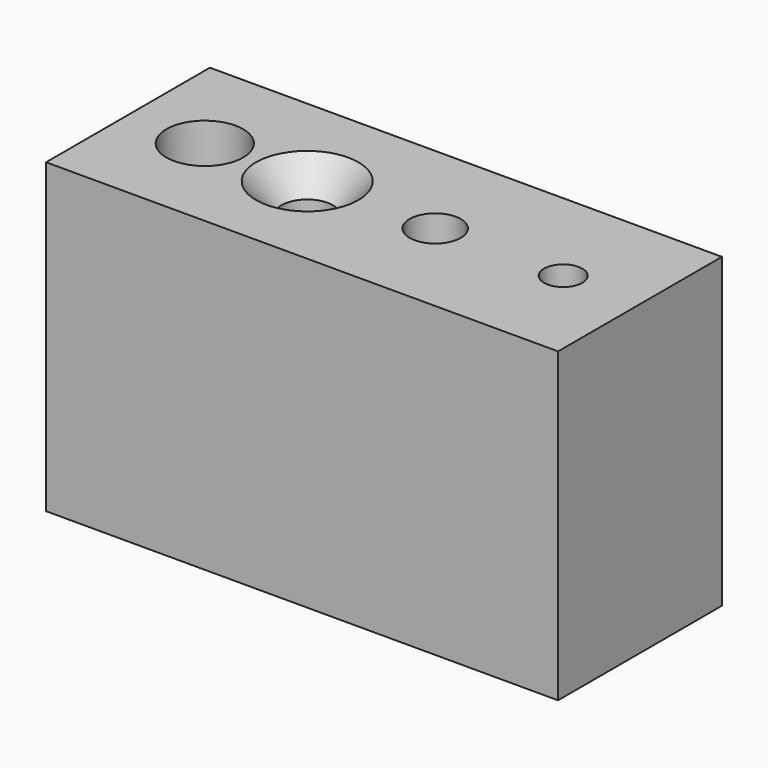
from build123d import *

# Parameters (mm, degrees)
F0_W           = 127
F0_H           = 76.2
F1_DEPTH       = 50.8
F3_D           = 12.7
F3_DEPTH       = 50.8
F3_CBORE_D     = 19.05
F3_CBORE_DEPTH = 12.7
F3_TIP         = 3.8154649308
F5_D           = 12.7
F5_CSINK_D     = 25.4
F5_CSINK_ANGLE = 82
F7_D           = 12.7
F9_D           = 6.35
F9_DEPTH       = 25.4
F9_CBORE_D     = 9.525
F9_CBORE_DEPTH = 6.35
F9_TIP         = 1.9077324654


with BuildPart() as f1:
    # F0 (on Front) → F1 (new body)
    with BuildSketch(Plane.XZ):
        with Locations((2.8626964785, 38.1)):
            Rectangle(F0_W, F0_H)
    extrude(amount=F1_DEPTH)

    # F3
    with Locations(Plane.XY.offset(76.2)):
        with Locations((-41.5873035215, -25.4)):
            CounterBoreHole(F3_D / 2, F3_CBORE_D / 2, F3_CBORE_DEPTH, depth=F3_DEPTH)
            with Locations((0, 0, -(F3_DEPTH + F3_TIP / 2))):  # 118° drill point
                Cone(0, F3_D / 2, F3_TIP, mode=Mode.SUBTRACT)

    # F5 (through all)
    with Locations(Plane.XY.offset(76.2)):
        with Locations((-16.1873035215, -25.4)):
            CounterSinkHole(F5_D / 2, F5_CSINK_D / 2, counter_sink_angle=F5_CSINK_ANGLE)

    # F7 (through all)
    with Locations(Plane.XY.offset(76.2)):
        with Locations((15.5626964785, -25.4)):
            Hole(F7_D / 2)

    # F9
    with Locations(Plane.XY.offset(76.2)):
        with Locations((47.3126964785, -25.4)):
            CounterBoreHole(F9_D / 2, F9_CBORE_D / 2, F9_CBORE_DEPTH, depth=F9_DEPTH)
            with Locations((0, 0, -(F9_DEPTH + F9_TIP / 2))):  # 118° drill point
                Cone(0, F9_D / 2, F9_TIP, mode=Mode.SUBTRACT)


solid = f1.part
